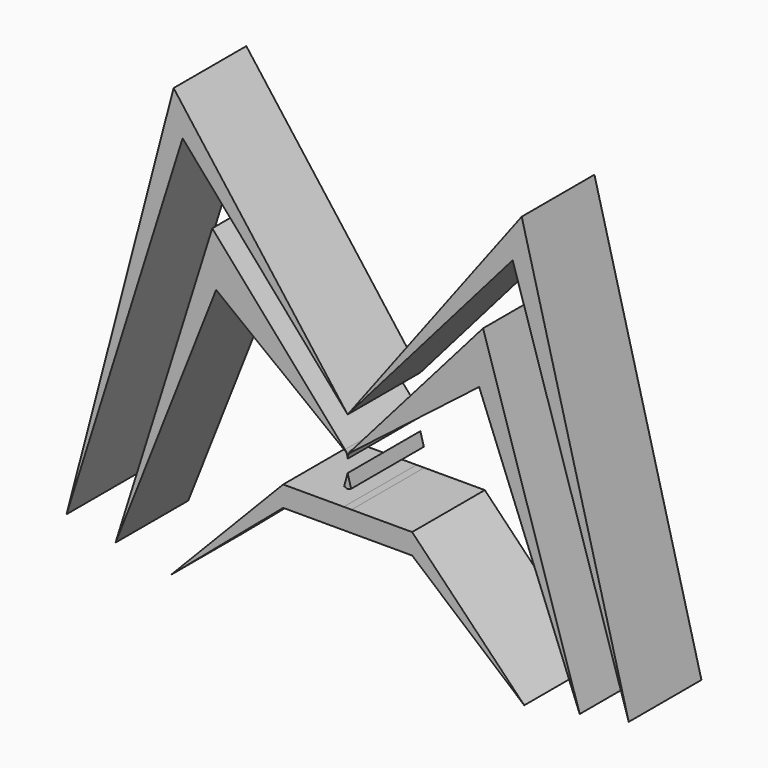
from build123d import *

# Parameters (mm, degrees)
F0_W     = 2.127678
F0_H     = 5.673803
F1_DEPTH = 25


with BuildPart() as f1:
    # F0 (on Front) → F1 (new body)
    with BuildSketch(Plane.XZ):
        with BuildLine():
            ThreePointArc((-0.342909, 0.265587), (-0.525377, 0.568744), (-0.74227, 0.848308))
            Line((-0.74227, 0.848308), (-37.234329, 42.553518))
            Line((-37.234329, 42.553518), (-63.830279, -42.198904))
            Line((-63.830279, -42.198904), (-36.17049, 28.014401))
            Line((-36.17049, 28.014401), (-0.342909, 0.265587))
        make_face()
        with BuildLine():
            ThreePointArc((0.74227, 0.848308), (0.525377, 0.568744), (0.342909, 0.265587))
            Line((0.342909, 0.265587), (36.17049, 28.014401))
            Line((36.17049, 28.014401), (63.830279, -42.198904))
            Line((63.830279, -42.198904), (37.234329, 42.553518))
            Line((37.234329, 42.553518), (0.74227, 0.848308))
        make_face()
        with BuildLine():
            Line((0, 0), (-0.342909, 0.265587))
            ThreePointArc((-0.342909, 0.265587), (-0.086989, -0.410013), (0, -1.127205))
            Line((0, -1.127205), (0, 0))
        make_face()
        with BuildLine():
            Line((0.342909, 0.265587), (0, 0))
            Line((0, 0), (0, -1.127205))
            ThreePointArc((0, -1.127205), (0.086989, -0.410013), (0.342909, 0.265587))
        make_face()
        Polygon((0, -4.609964), (-0.952507, -8.102487), (0, -8.510704), (0.952507, -8.102487), align=None)
        with Locations((0, -15.957569)):
            Rectangle(F0_W, F0_H)
        Polygon((17.730633, -13.120668), (1.063839, -13.120668), (1.063839, -18.794471), (17.730633, -18.794471), (48.581935, -45.035809), align=None)
        Polygon((-1.063839, -18.794471), (-1.063839, -13.120668), (-17.730633, -13.120668), (-48.581935, -45.035809), (-17.730633, -18.794471), align=None)
        Polygon((-45.39042, 61.702605), (0, 9.574542), (-47.872711, 73.050208), (-77.305563, -39.71662), align=None)
        Polygon((47.872711, 73.050208), (0, 9.574542), (45.39042, 61.702605), (77.305563, -39.71662), align=None)
    extrude(amount=F1_DEPTH)


solid = f1.part
